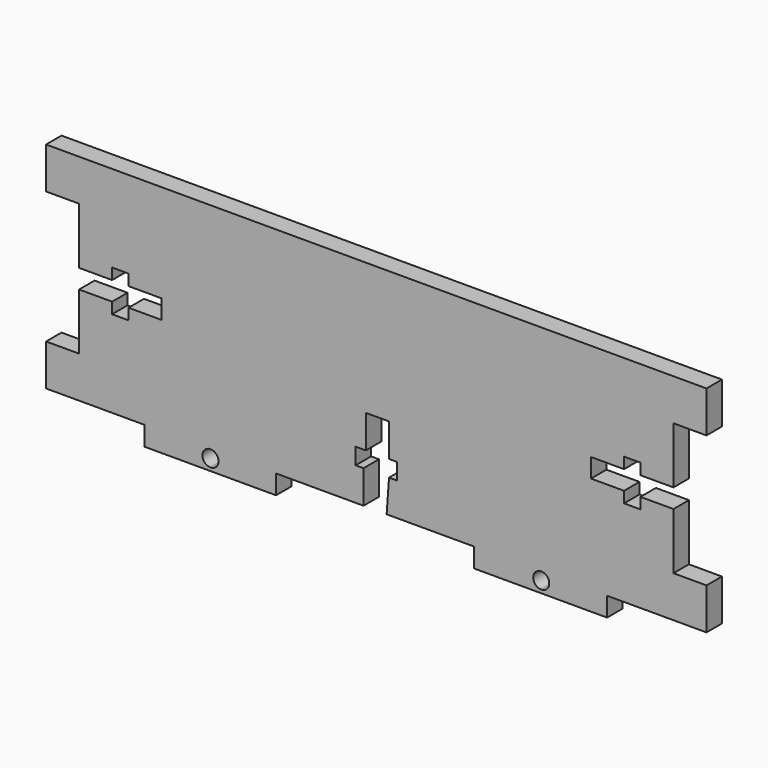
from build123d import *

# Parameters (mm, degrees)
F1_DEPTH = 2.9718


with BuildPart() as f1:
    # F0 (on Front) → F1 (new body)
    with BuildSketch(Plane.XZ):
        Polygon((50.803774, 10.155042), (50.803774, 16.523927), (-50.803774, 16.523927), (-50.803774, 10.155042), (-45.726253, 10.155042), (-45.726253, 1.46211), (-40.645675, 1.46211), (-40.645675, 3.166813), (-38.120666, 3.166813), (-38.120666, 1.46211), (-33.040088, 1.46211), (-33.040088, -1.46211), (-38.120666, -1.46211), (-38.120666, -3.166813), (-40.645675, -3.166813), (-40.645675, -1.46211), (-45.726253, -1.46211), (-45.726253, -10.155042), (-50.803774, -10.155042), (-50.803774, -16.523927), (-36.274352, -16.523927), (-35.637688, -16.523927), (-35.637688, -19.489414), (-35.001023, -19.489414), (-33.727694, -19.489414), (-15.989768, -19.489414), (-15.423342, -19.489414), (-15.423342, -16.523927), (-1.961342, -16.526012), (-1.961342, -11.439482), (-3.173383, -11.439482), (-3.173383, -8.912095), (-1.594658, -8.912095), (-1.594658, -3.825564), (0.183342, -3.825564), (1.961342, -3.825564), (1.961342, -8.912095), (3.173383, -8.912095), (3.173383, -11.439482), (1.961342, -11.437397), (1.594658, -16.526012), (15.056658, -16.523927), (15.056658, -19.489414), (32.80142, -19.489414), (34.716258, -19.489414), (35.512239, -19.489414), (35.512239, -16.523927), (36.919279, -16.523927), (50.803774, -16.523927), (50.803774, -10.155042), (45.726253, -10.155042), (45.726253, -1.46211), (40.645675, -1.46211), (40.645675, -3.166813), (38.120666, -3.166813), (38.120666, -1.46211), (33.040088, -1.46211), (33.040088, 1.46211), (38.120666, 1.46211), (38.120666, 3.166813), (40.645675, 3.166813), (40.645675, 1.46211), (45.726253, 1.46211), (45.726253, 10.155042), align=None)
        with BuildLine():
            ThreePointArc((-25.530515, -18.992789), (-26.745142, -17.758358), (-25.530515, -16.523927))
            ThreePointArc((-25.530515, -16.523927), (-24.644648, -16.878339), (-24.275957, -17.758358))
            ThreePointArc((-24.275957, -17.758358), (-24.644648, -18.638377), (-25.530515, -18.992789))
        make_face(mode=Mode.SUBTRACT)
        with BuildLine():
            ThreePointArc((25.358268, -18.983975), (24.148281, -17.752075), (25.358268, -16.520175))
            ThreePointArc((25.358268, -16.520175), (26.243751, -16.873067), (26.612477, -17.752075))
            ThreePointArc((26.612477, -17.752075), (26.243751, -18.631083), (25.358268, -18.983975))
        make_face(mode=Mode.SUBTRACT)
    extrude(amount=F1_DEPTH)


solid = f1.part
